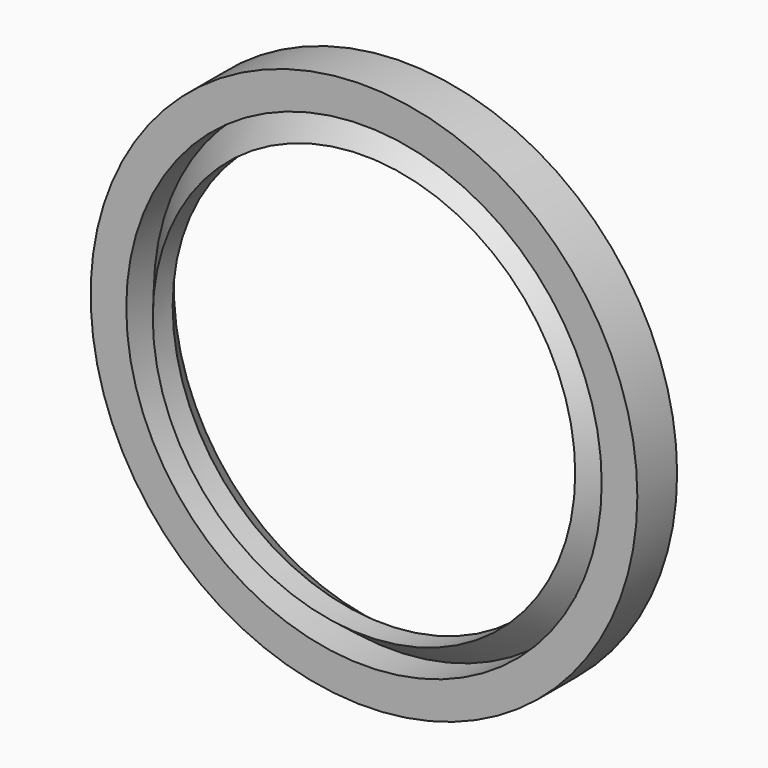
from build123d import *


with BuildPart() as f2:
    # F2: sweep along a path in F0
    with BuildLine(Plane.XZ) as f2_path:
        CenterArc((0, 0), 69.85, 0, 360)
    # F1 (on Right) → F2 (sweep)
    with BuildSketch(Plane.YZ):
        Polygon((6.35, 58.728442), (6.35, 69.85), (-6.35, 69.85), (-6.35, 60.743734), (2.474481, 60.743734), (-6.35, 53.975), (0, 53.975), align=None)
    sweep(path=f2_path.line)


solid = f2.part
